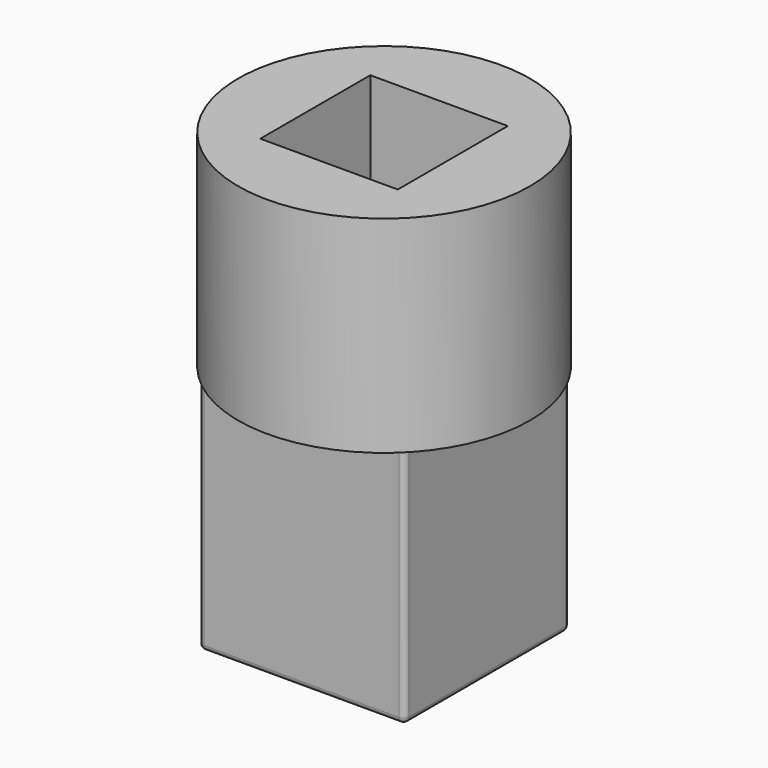
from build123d import *

# Parameters (mm, degrees)
F1_DEPTH = 11.1125
F2_R     = 0.254
F3_R     = 6.737778
F4_DEPTH = 9.525
F5_W     = 6.35
F5_H     = 6.35
F6_DEPTH = 6.604


with BuildPart() as f1:
    # F0 (on Top) → F1 (new body)
    with BuildSketch(Plane.XY):
        with BuildLine():
            ThreePointArc((4.7625, 4.5085), (4.688105, 4.688105), (4.5085, 4.7625))
            Line((4.5085, 4.7625), (-4.5085, 4.7625))
            ThreePointArc((-4.5085, 4.7625), (-4.688105, 4.688105), (-4.7625, 4.5085))
            Line((-4.7625, 4.5085), (-4.7625, -4.5085))
            ThreePointArc((-4.7625, -4.5085), (-4.688105, -4.688105), (-4.5085, -4.7625))
            Line((-4.5085, -4.7625), (4.5085, -4.7625))
            ThreePointArc((4.5085, -4.7625), (4.688105, -4.688105), (4.7625, -4.5085))
            Line((4.7625, -4.5085), (4.7625, 4.5085))
        make_face()
    extrude(amount=F1_DEPTH)

    # F2
    f2_edges = [f1.edges().sort_by_distance(p)[0] for p in [
        (4.7625, 0, 0),
    ]]
    fillet(f2_edges, radius=F2_R)

    # F3 (on face) → F4 (join)
    with BuildSketch(Plane.XY.offset(11.1125)):
        Circle(F3_R)
    extrude(amount=F4_DEPTH)

    # F5 (on face) → F6 (cut)
    with BuildSketch(Plane.XY.offset(20.6375)):
        Rectangle(F5_W, F5_H)
    extrude(amount=-F6_DEPTH, mode=Mode.SUBTRACT)


solid = f1.part
